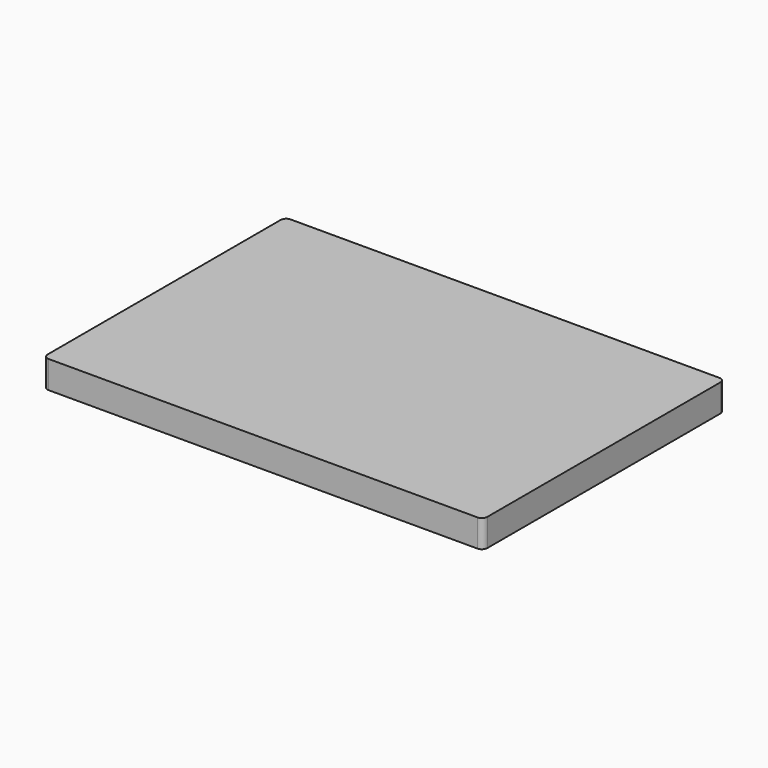
from build123d import *

# Parameters (mm, degrees)
F1_DEPTH = 10


with BuildPart() as f1:
    # F0 (on Top) → F1 (new body, symmetric)
    with BuildSketch(Plane.XY):
        with BuildLine():
            ThreePointArc((160, 106), (158.828427, 108.828427), (156, 110))
            Line((156, 110), (-156, 110))
            ThreePointArc((-156, 110), (-158.828427, 108.828427), (-160, 106))
            Line((-160, 106), (-160, -106))
            ThreePointArc((-160, -106), (-158.828427, -108.828427), (-156, -110))
            Line((-156, -110), (156, -110))
            ThreePointArc((156, -110), (158.828427, -108.828427), (160, -106))
            Line((160, -106), (160, 106))
        make_face()
    extrude(amount=F1_DEPTH, both=True)


solid = f1.part
